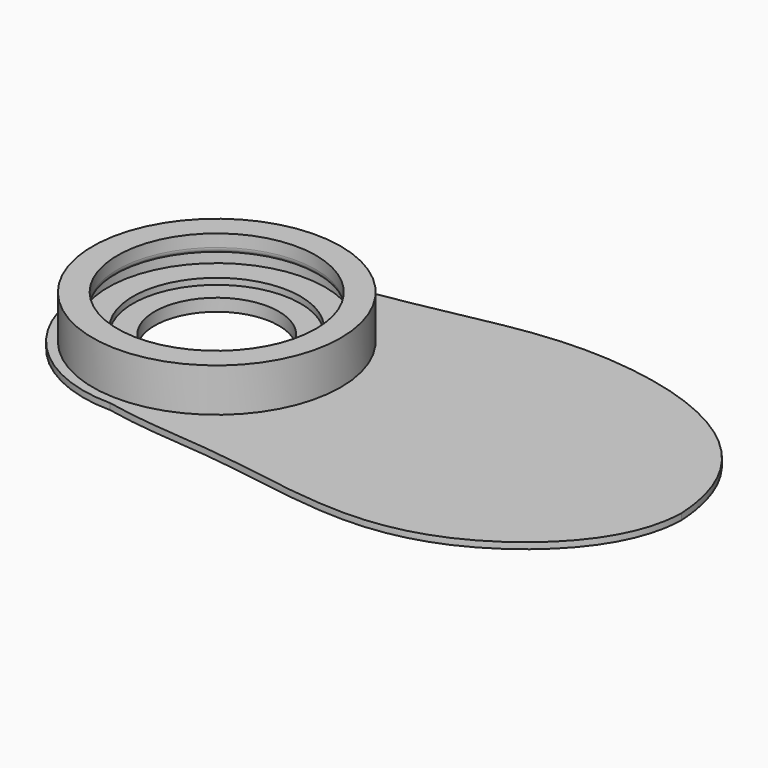
from build123d import *

# Parameters (mm, degrees)
F0_R     = 13.5
F0_R_2   = 10
F1_DEPTH = 1
F0_R_3   = 17.5
F2_DEPTH = 2
F0_R_4   = 20
F3_DEPTH = 7
F5_START = 4
F4_R     = 20
F4_R_2   = 16
F5_DEPTH = 3
F6_R     = 1
F7_R     = 10
F8_DEPTH = 1


with BuildPart() as f1:
    # F0 (on Top) → F1 (new body)
    with BuildSketch(Plane.XY):
        Circle(F0_R)
        Circle(F0_R_2, mode=Mode.SUBTRACT)
    extrude(amount=F1_DEPTH)

    # F0 (on Top) → F2 (join)
    with BuildSketch(Plane.XY):
        Circle(F0_R_3)
        Circle(F0_R, mode=Mode.SUBTRACT)
    extrude(amount=F2_DEPTH)

    # F0 (on Top) → F3 (join)
    with BuildSketch(Plane.XY):
        Circle(F0_R_4)
        Circle(F0_R_3, mode=Mode.SUBTRACT)
    extrude(amount=F3_DEPTH)

    # F4 (on Top) → F5 (join)
    with BuildSketch(Plane.XY.offset(F5_START)):
        Circle(F4_R)
        Circle(F4_R_2, mode=Mode.SUBTRACT)
    extrude(amount=F5_DEPTH)

    # F6
    f6_edges = [f1.edges().sort_by_distance(p)[0] for p in [
        (-16, 0, 4),
    ]]
    fillet(f6_edges, radius=F6_R)

    # F7 (on face) → F8 (join)
    with BuildSketch(Plane(origin=(0, 0, 0), x_dir=(1, 0, 0), z_dir=(0, 0, -1))):
        with BuildLine():
            add(Edge.make_bspline(
                [(0, 21.4875730586), (6.7657779426, 22.9365033035), (19.1072018799, 23.0482109616), (42.3023448655, 28.3031387355), (62.5173056226, 22.6182888102), (74.7384138035, 9.0261408273), (74.8955963135, 0)],
                knots=[0, 0, 0, 0, 0.2365573131, 0.4928095835, 0.735068508, 1, 1, 1, 1], degree=3))
            ThreePointArc((0, 21.4875730586), (-21.4875730586, 0), (0, -21.4875730586))
            add(Edge.make_bspline(
                [(0, -21.4875730586), (6.5654981556, -22.184182424), (20.8345654653, -25.1367847277), (37.794885628, -28.3962922072), (63.6423801672, -24.0427135063), (74.3739329381, -10.4370014279), (74.8955963135, 0)],
                knots=[0, 0, 0, 0, 0.2436300342, 0.4682692375, 0.7315377861, 1, 1, 1, 1], degree=3))
        make_face()
        Circle(F7_R, mode=Mode.SUBTRACT)
    extrude(amount=F8_DEPTH)


solid = f1.part
